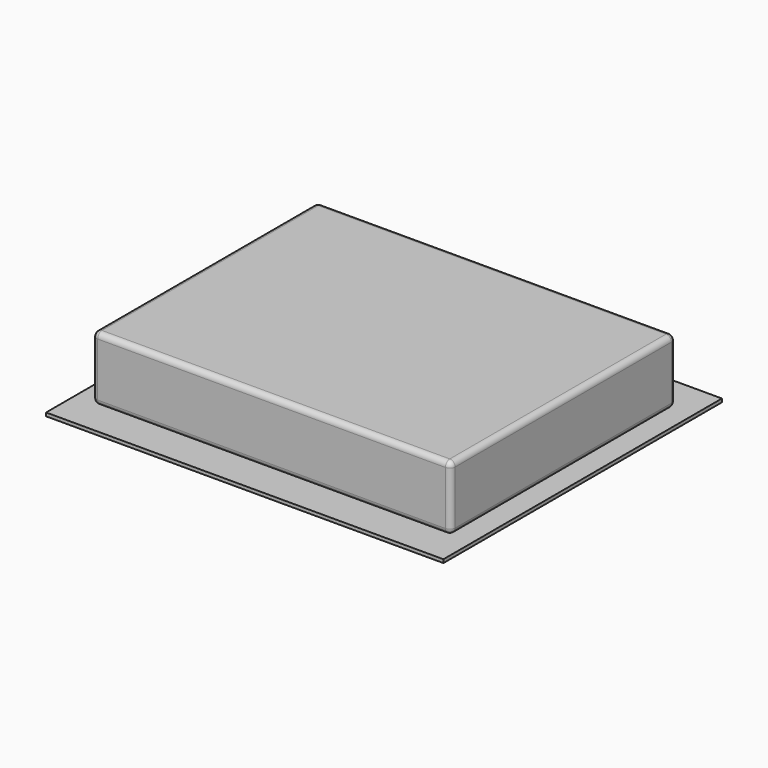
from build123d import *

# Parameters (mm, degrees)
F0_W     = 2220
F0_H     = 1945
F1_DEPTH = 19
F2_W     = 2003
F2_H     = 1570
F3_DEPTH = 360
F4_R     = 30


with BuildPart() as f1:
    # F0 (on Top) → F1 (new body)
    with BuildSketch(Plane.XY):
        Rectangle(F0_W, F0_H)
    extrude(amount=F1_DEPTH)


with BuildPart() as f3:
    # F2 (on face) → F3 (new body)
    with BuildSketch(Plane.XY.offset(19)):
        Rectangle(F2_W, F2_H)
    extrude(amount=F3_DEPTH)

    # F4
    f4_edges = [f3.edges().sort_by_distance(p)[0] for p in [
        (1001.5, 0, 379),
        (0, 785, 379),
        (-1001.5, 0, 379),
        (0, -785, 379),
        (-1001.5, -785, 199),
        (0, -785, 19),
        (-1001.5, 0, 19),
        (-1001.5, 785, 199),
        (0, 785, 19),
        (1001.5, 785, 199),
        (1001.5, 0, 19),
        (1001.5, -785, 199),
    ]]
    fillet(f4_edges, radius=F4_R)


solid = Compound([f1.part, f3.part])
